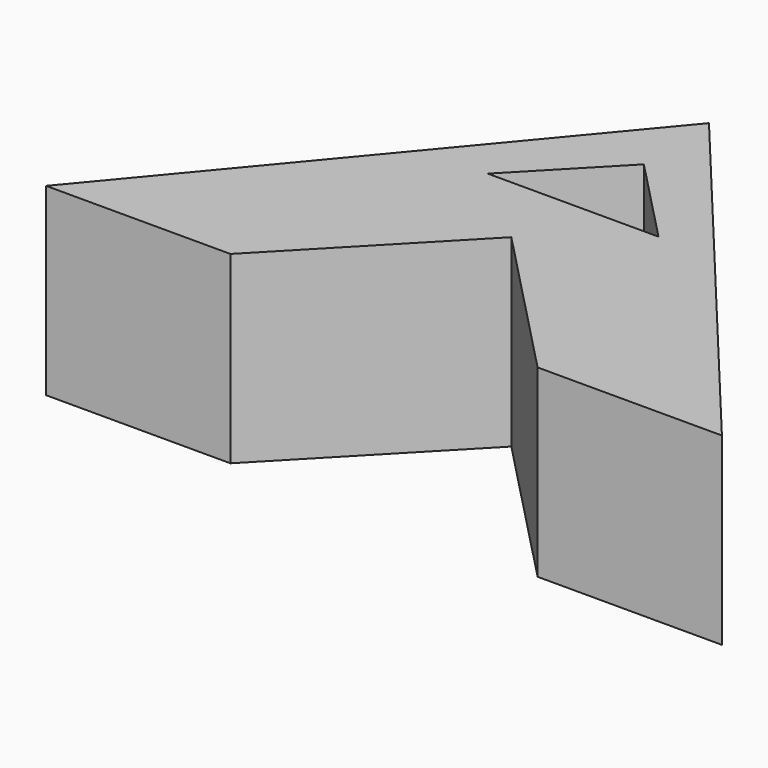
from build123d import *

# Parameters (mm, degrees)
F1_DEPTH = 19.05


with BuildPart() as f1:
    # F0 (on Top) → F1 (new body)
    with BuildSketch(Plane.XY):
        Polygon((-9.220245, 13.178808), (-44.145245, -28.803289), (-25.095245, -28.803289), (-9.220245, -12.35446), (6.654755, -28.803289), (25.704755, -28.803289), align=None)
        Polygon((-17.64437, -4.866622), (-8.822185, 4.268971), (0, -4.866622), align=None, mode=Mode.SUBTRACT)
    extrude(amount=F1_DEPTH)


solid = f1.part
